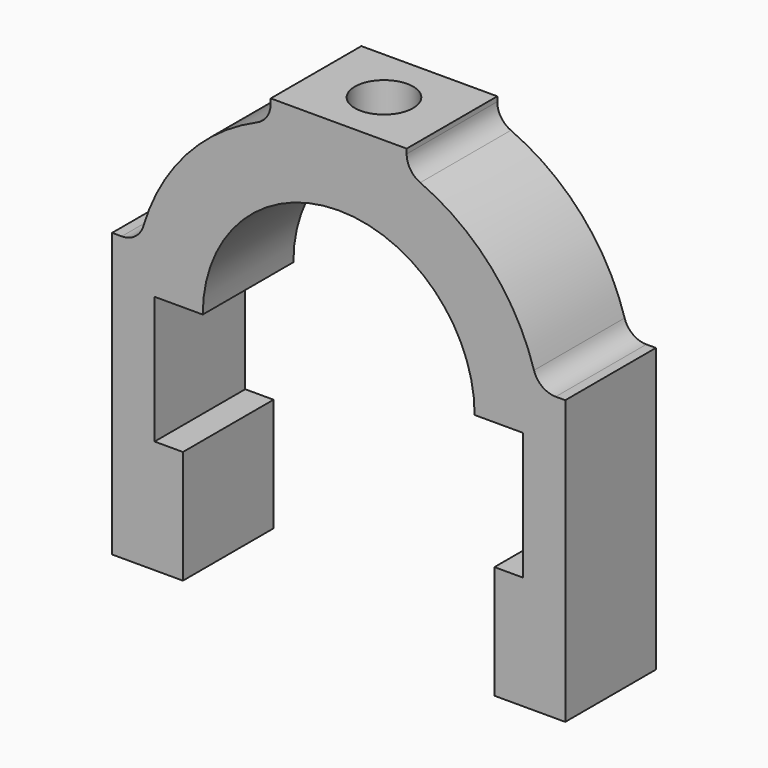
from build123d import *

# Parameters (mm, degrees)
F1_DEPTH = 10
F3_D     = 10.3


with BuildPart() as f1:
    # F0 (on Front) → F1 (new body, symmetric)
    with BuildSketch(Plane.XZ):
        with BuildLine():
            ThreePointArc((-12, 36.6606055596), (-12.6533598939, 34.4697153296), (-14.4, 32.9945450037))
            ThreePointArc((-14.4, 32.9945450037), (-26.9352922929, 23.884933098), (-34.4801029581, 10.35))
            ThreePointArc((-34.4801029581, 10.35), (-35.9237582317, 8.2906386928), (-38.311225509, 7.5))
            Line((-38.311225509, 7.5), (-40, 7.5))
            Line((-40, 7.5), (-40, -42.5))
            Line((-40, -42.5), (-27.5, -42.5))
            Line((-27.5, -42.5), (-27.5, -22.5))
            Line((-27.5, -22.5), (-32.5, -22.5))
            Line((-32.5, -22.5), (-32.5, 0))
            Line((-32.5, 0), (-24, 0))
            ThreePointArc((-24, 0), (-16.9705627485, 16.9705627485), (0, 24))
            ThreePointArc((0, 24), (16.9705627485, 16.9705627485), (24, 0))
            Line((24, 0), (32.5, 0))
            Line((32.5, 0), (32.5, -22.5))
            Line((32.5, -22.5), (27.5, -22.5))
            Line((27.5, -22.5), (27.5, -42.5))
            Line((27.5, -42.5), (40, -42.5))
            Line((40, -42.5), (40, 7.5))
            Line((40, 7.5), (38.311225509, 7.5))
            ThreePointArc((38.311225509, 7.5), (35.9237582317, 8.2906386928), (34.4801029581, 10.35))
            ThreePointArc((34.4801029581, 10.35), (26.9352922929, 23.884933098), (14.4, 32.9945450037))
            ThreePointArc((14.4, 32.9945450037), (12.6533598939, 34.4697153296), (12, 36.6606055596))
            Line((12, 36.6606055596), (12, 37.5))
            Line((12, 37.5), (0, 37.5))
            Line((0, 37.5), (-12, 37.5))
            Line((-12, 37.5), (-12, 36.6606055596))
        make_face()
    extrude(amount=F1_DEPTH, both=True)

    # F3 (through all)
    with Locations(Plane(origin=(0, 0, 0), x_dir=(1, 0, 0), z_dir=(0, 0, -1))):
        with Locations((0, 0)):
            Hole(F3_D / 2)


solid = f1.part
